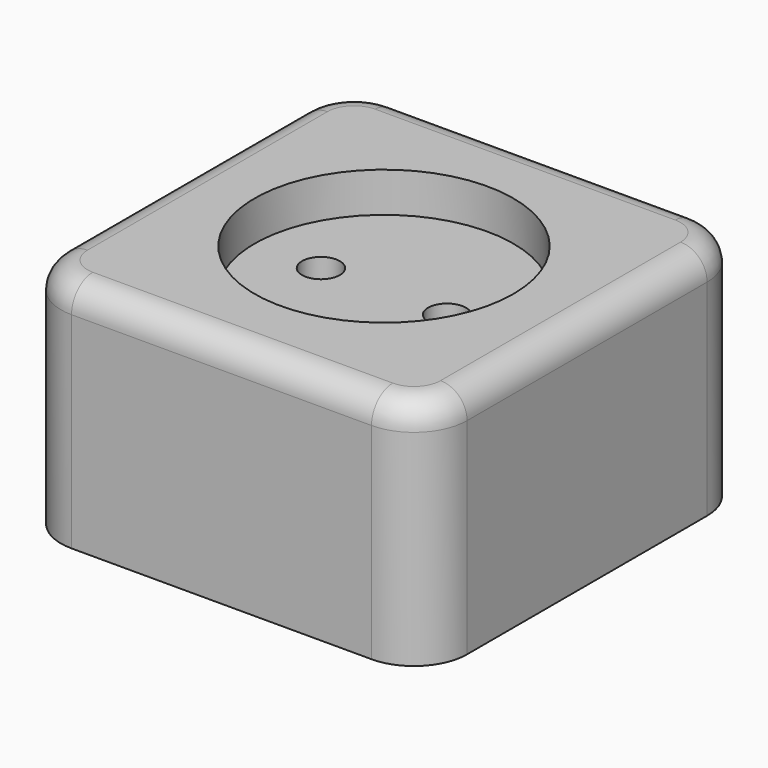
from build123d import *

# Parameters (mm, degrees)
PAD009_DEPTH            = 35
POCKET002_DEPTH         = 25
SKETCH025_W             = 6.4
SKETCH025_H             = 2.5
PAD010_DEPTH            = 9
SKETCH026_R             = 1.55
PAD011_DEPTH            = 9
PAD012_DEPTH            = 33
SKETCH025_MIRRORED_2_W  = 6.4
SKETCH025_MIRRORED_2_H  = 2.5
PAD010_MIRRORED_2_DEPTH = 9
PAD012_MIRRORED_2_DEPTH = 33
SKETCH026_MIRRORED_2_R  = 1.55
PAD011_MIRRORED_2_DEPTH = 9
POCKET003_DEPTH         = 10
PAD013_DEPTH            = 7
POCKET004_DEPTH         = 10
SKETCH031_W             = 19.5
SKETCH031_H             = 6
SKETCH032_R             = 2.85
POCKET005_DEPTH         = 0.001
POCKET005_DEPTH_BACK    = 35.001
FILLET001_R             = 4


with BuildPart() as part:
    # Sketch023 → Pad009 (new body)
    with BuildSketch(Plane.XY):
        with BuildLine():
            Line((-22.6, 30.6), (22.6, 30.6))
            ThreePointArc((30.6, 22.6), (28.2568542495, 28.2568542495), (22.6, 30.6))
            Line((30.6, 22.6), (30.6, -22.6))
            ThreePointArc((22.6, -30.6), (28.2568542495, -28.2568542495), (30.6, -22.6))
            Line((22.6, -30.6), (-22.6, -30.6))
            ThreePointArc((-30.6, -22.6), (-28.2568542495, -28.2568542495), (-22.6, -30.6))
            Line((-30.6, -22.6), (-30.6, 22.6))
            ThreePointArc((-22.6, 30.6), (-28.2568542495, 28.2568542495), (-30.6, 22.6))
        make_face()
    extrude(amount=PAD009_DEPTH)

    # Sketch024 → Pocket002 (cut)
    with BuildSketch(Plane.XY):
        with BuildLine():
            Line((-22.6, 28.3), (22.6, 28.3))
            ThreePointArc((28.3, 22.6), (26.6305086528, 26.6305086528), (22.6, 28.3))
            Line((28.3, 22.6), (28.3, -22.6))
            ThreePointArc((22.6, -28.3), (26.6305086528, -26.6305086528), (28.3, -22.6))
            Line((22.6, -28.3), (-22.6, -28.3))
            ThreePointArc((-28.3, -22.6), (-26.6305086528, -26.6305086528), (-22.6, -28.3))
            Line((-28.3, -22.6), (-28.3, 22.6))
            ThreePointArc((-22.6, 28.3), (-26.6305086528, 26.6305086528), (-28.3, 22.6))
        make_face()
    extrude(amount=POCKET002_DEPTH, mode=Mode.SUBTRACT)

    # Sketch025 → Pad010 (join)
    with BuildSketch(Plane.XY):
        with Locations((16.3, 27.35)):
            Rectangle(SKETCH025_W, SKETCH025_H)
    pad010 = extrude(amount=PAD010_DEPTH)

    # Sketch026 → Pad011 (join)
    with BuildSketch(Plane.XY):
        with Locations((28.1, 15.6)):
            Circle(SKETCH026_R)
    pad011 = extrude(amount=PAD011_DEPTH)

    # Sketch027 → Pad012 (join)
    with BuildSketch(Plane.XY):
        with BuildLine():
            Line((21.8, 3.3), (12.7, 3.3))
            Line((12.7, 3.3), (12.7, 5.5))
            ThreePointArc((14.7, 7.5), (13.2857864376, 6.9142135624), (12.7, 5.5))
            Line((14.7, 7.5), (19.8, 7.5))
            ThreePointArc((21.8, 5.5), (21.2142135624, 6.9142135624), (19.8, 7.5))
            Line((21.8, 5.5), (21.8, 3.3))
        make_face()
    pad012 = extrude(amount=PAD012_DEPTH)

    # Sketch025 Mirrored 2 → Pad010 Mirrored 2 (add)
    with BuildSketch(Plane(origin=(0, 0, 0), x_dir=(-1, 0, 0), z_dir=(0, 0, -1))):
        with Locations((16.3, 27.35)):
            Rectangle(SKETCH025_MIRRORED_2_W, SKETCH025_MIRRORED_2_H)
    pad010_mirrored_2 = extrude(amount=-PAD010_MIRRORED_2_DEPTH)

    # Sketch027 Mirrored 2 → Pad012 Mirrored 2 (add)
    with BuildSketch(Plane(origin=(0, 0, 0), x_dir=(-1, 0, 0), z_dir=(0, 0, -1))):
        with BuildLine():
            Line((21.8, 3.3), (12.7, 3.3))
            Line((12.7, 3.3), (12.7, 5.5))
            ThreePointArc((14.7, 7.5), (13.2857864376, 6.9142135624), (12.7, 5.5))
            Line((14.7, 7.5), (19.8, 7.5))
            ThreePointArc((21.8, 5.5), (21.2142135624, 6.9142135624), (19.8, 7.5))
            Line((21.8, 5.5), (21.8, 3.3))
        make_face()
    pad012_mirrored_2 = extrude(amount=-PAD012_MIRRORED_2_DEPTH)

    # Sketch026 Mirrored 2 → Pad011 Mirrored 2 (add)
    with BuildSketch(Plane(origin=(0, 0, 0), x_dir=(-1, 0, 0), z_dir=(0, 0, -1))):
        with Locations((28.1, 15.6)):
            Circle(SKETCH026_MIRRORED_2_R)
    pad011_mirrored_2 = extrude(amount=-PAD011_MIRRORED_2_DEPTH)

    # Mirrored001: Pad010, Pad012, Pad011, Pad010 Mirrored 2, Pad012 Mirrored 2, Pad011 Mirrored 2 across XZ
    add(pad010.mirror(Plane.XZ))
    add(pad012.mirror(Plane.XZ))
    add(pad011.mirror(Plane.XZ))
    add(pad010_mirrored_2.mirror(Plane.XZ))
    add(pad012_mirrored_2.mirror(Plane.XZ))
    add(pad011_mirrored_2.mirror(Plane.XZ))

    # Sketch028 → Pocket003 (cut, symmetric)
    with BuildSketch(Plane.XZ):
        Polygon((-12.75, 1), (12.75, 1), (17.5, 0), (-17.5, 0), align=None)
    extrude(amount=POCKET003_DEPTH, both=True, mode=Mode.SUBTRACT)

    # Sketch029 → Pad013 (join)
    with BuildSketch(Plane.XY.offset(2)):
        with BuildLine():
            Line((23.95, 5), (12.95, 5))
            Line((12.95, 5), (12.95, -5))
            Line((12.95, -5), (23.95, -5))
            Line((23.95, -5), (23.95, -2.25))
            Line((19, -2.25), (23.95, -2.25))
            ThreePointArc((19, 2.25), (16.75, 0), (19, -2.25))
            Line((19, 2.25), (23.95, 2.25))
            Line((23.95, 2.25), (23.95, 5))
        make_face()
    pad013 = extrude(amount=PAD013_DEPTH)

    # Sketch030 → Pocket004 (cut)
    with BuildSketch(Plane.XY.offset(9)):
        with BuildLine():
            ThreePointArc((19, 5), (14, 0), (19, -5))
            Line((19, -5), (25, -5))
            Line((25, 5), (25, -5))
            Line((19, 5), (25, 5))
        make_face()
    pocket004 = extrude(amount=POCKET004_DEPTH, mode=Mode.SUBTRACT)

    # Mirrored002: Pad013, Pocket004 across YZ
    add(pad013.mirror(Plane.YZ))
    add(pocket004.mirror(Plane.YZ), mode=Mode.SUBTRACT)

    # Sketch031 → Groove (revolve, cut)
    with BuildSketch(Plane.XZ):
        with Locations((9.75, 32)):
            Rectangle(SKETCH031_W, SKETCH031_H)
    revolve(axis=Axis((0, 0, 0), (0, 0, 1)), mode=Mode.SUBTRACT)

    # Sketch032 → Pocket005 (cut, two sides)
    with BuildSketch(Plane.XY) as pocket005_sk:
        with Locations((9.5, 0)):
            Circle(SKETCH032_R)
        with Locations((-9.5, 0)):
            Circle(SKETCH032_R)
    extrude(amount=-POCKET005_DEPTH, mode=Mode.SUBTRACT)
    extrude(pocket005_sk.sketch, amount=POCKET005_DEPTH_BACK, mode=Mode.SUBTRACT)

    # Fillet001
    fillet001_edges = [part.edges().sort_by_distance(p)[0] for p in [
        (0, -30.6, 35),
    ]]
    fillet(fillet001_edges, radius=FILLET001_R)


solid = part.part
